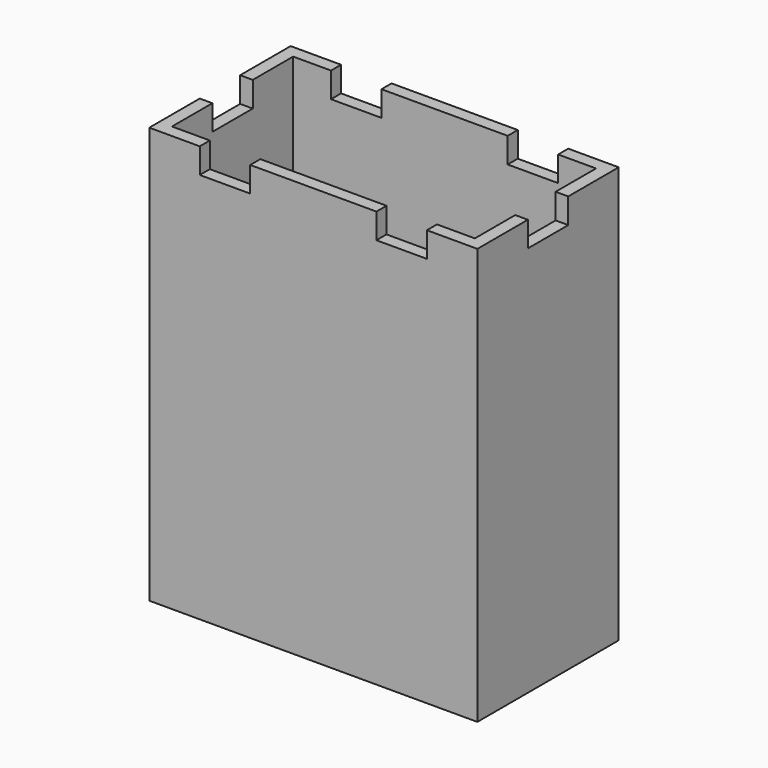
from build123d import *

# Parameters (mm, degrees)
F0_W     = 130
F0_H     = 70
F1_DEPTH = 5
F2_W     = 130
F2_H     = 70
F2_W_2   = 120
F2_H_2   = 60
F3_DEPTH = 160
F4_W     = 20
F4_H     = 25
F4_H_2   = 20
F4_W_2   = 50
F5_DEPTH = 10


with BuildPart() as f1:
    # F0 (on Top) → F1 (new body)
    with BuildSketch(Plane.XY):
        with Locations((65, 35)):
            Rectangle(F0_W, F0_H)
    extrude(amount=F1_DEPTH)

    # F2 (on face) → F3 (join)
    with BuildSketch(Plane.XY.offset(5)):
        with Locations((65, 35)):
            Rectangle(F2_W, F2_H)
        with Locations((65, 35)):
            Rectangle(F2_W_2, F2_H_2, mode=Mode.SUBTRACT)
    extrude(amount=F3_DEPTH)

    # F4 (on face) → F5 (cut)
    with BuildSketch(Plane.XY.offset(165)):
        with Locations((30, 12.5)):
            Rectangle(F4_W, F4_H)
        with Locations((10, 35)):
            Rectangle(F4_W, F4_H_2)
        with Locations((65, 35)):
            Rectangle(F4_W_2, F4_H_2)
        with Locations((30, 57.5)):
            Rectangle(F4_W, F4_H)
        with Locations((100, 12.5)):
            Rectangle(F4_W, F4_H)
        with Locations((100, 57.5)):
            Rectangle(F4_W, F4_H)
        with Locations((120, 35)):
            Rectangle(F4_W, F4_H_2)
    extrude(amount=-F5_DEPTH, mode=Mode.SUBTRACT)


solid = f1.part
